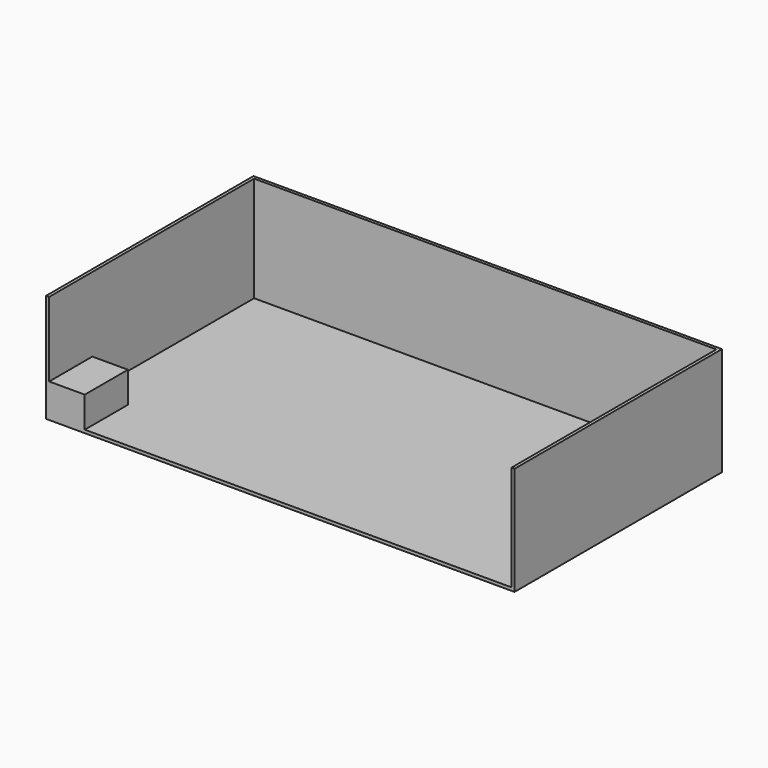
from build123d import *

# Parameters (mm, degrees)
F0_W     = 385.718018
F0_H     = 222.336978
F1_DEPTH = 89.263966
F2_T     = -2.54
F3_W     = 385.718018
F3_H     = 89.263966
F4_DEPTH = 8.865619
F5_W     = 29.299758
F5_H     = 44.448814
F6_DEPTH = 25.4


with BuildPart() as f1:
    # F0 (on Top) → F1 (new body)
    with BuildSketch(Plane.XY):
        Rectangle(F0_W, F0_H)
    extrude(amount=F1_DEPTH)

    # F2
    f2_openings = [f1.faces().sort_by_distance(p)[0] for p in [
        (0, 0, 89.263966),
    ]]
    offset(amount=F2_T, openings=f2_openings)

    # F3 (on face) → F4 (cut)
    with BuildSketch(Plane.XZ.offset(111.168489)):
        with Locations((0, 44.631983)):
            Rectangle(F3_W, F3_H)
    extrude(amount=-F4_DEPTH, mode=Mode.SUBTRACT)

    # F5 (on face) → F6 (join)
    with BuildSketch(Plane.XY.offset(2.54)):
        with Locations((-175.66913, -80.078463)):
            Rectangle(F5_W, F5_H)
    extrude(amount=F6_DEPTH)


solid = f1.part
